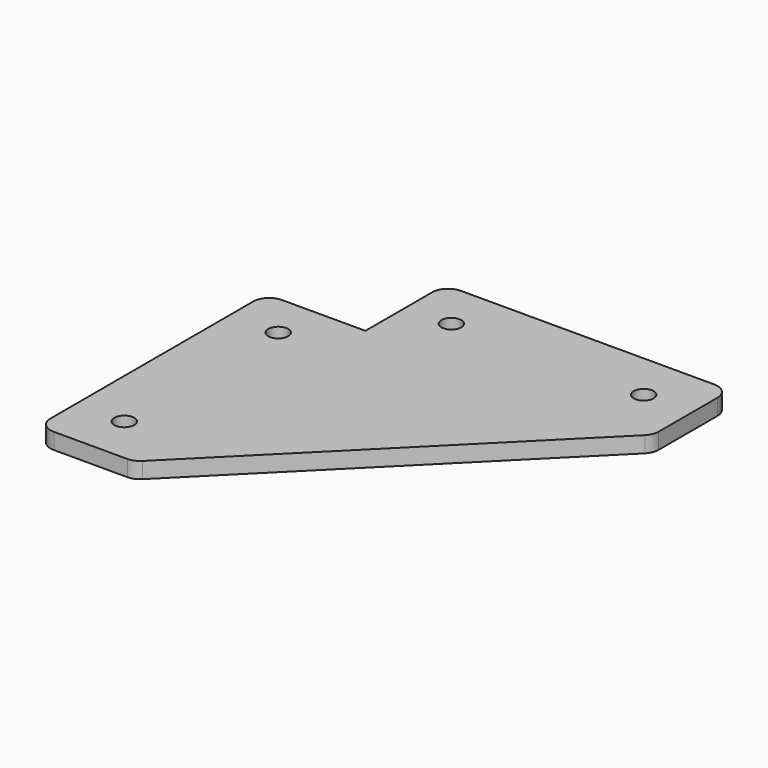
from build123d import *

# Parameters (mm, degrees)
SKETCH_R  = 3.1
PAD_DEPTH = 2.5
FILLET_R  = 5


with BuildPart() as part:
    # Sketch → Pad (new body, symmetric)
    with BuildSketch(Plane.XY):
        Polygon((16, 15), (105, 15), (105, -15), (15, -105), (-15, -105), (-15, -16), (16, -16), align=None)
        with Locations((30, 0)):
            Circle(SKETCH_R, mode=Mode.SUBTRACT)
        with Locations((90, 0)):
            Circle(SKETCH_R, mode=Mode.SUBTRACT)
        with Locations((0, -30)):
            Circle(SKETCH_R, mode=Mode.SUBTRACT)
        with Locations((0, -90)):
            Circle(SKETCH_R, mode=Mode.SUBTRACT)
    extrude(amount=PAD_DEPTH, both=True)

    # Fillet
    fillet_edges = [part.edges().sort_by_distance(p)[0] for p in [
        (-15, -105, 0),
        (105, 15, 0),
        (15, -105, 0),
        (105, -15, 0),
        (16, 15, 0),
        (-15, -16, 0),
    ]]
    fillet(fillet_edges, radius=FILLET_R)


solid = part.part
